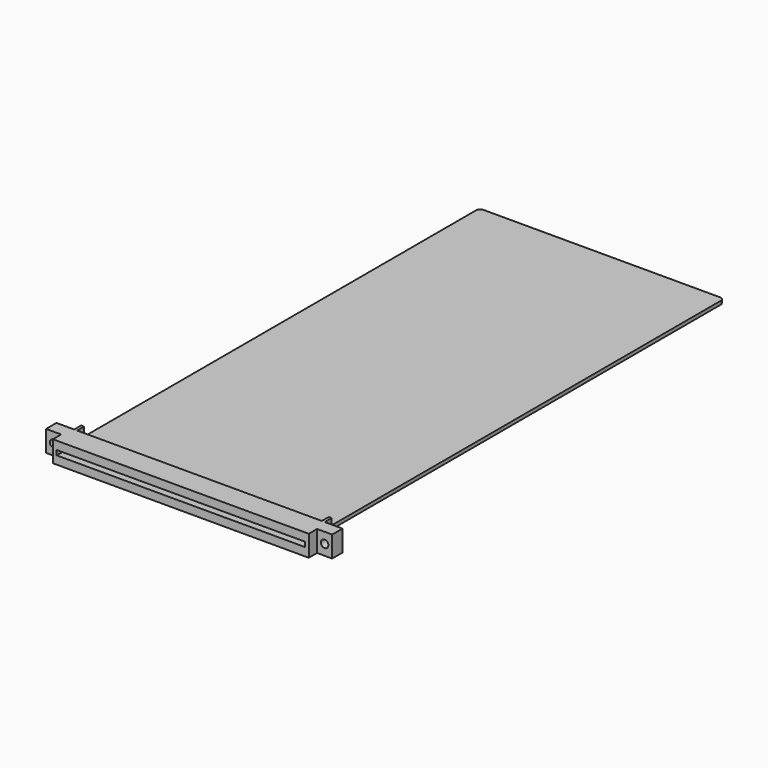
from build123d import *

# Parameters (mm, degrees)
F1_DEPTH = 9.8
F2_R     = 1.75
F3_DEPTH = 7
F4_R     = 1.75
F5_DEPTH = 7
F6_W     = 115
F6_H     = 2.2
F7_DEPTH = 7.5
F8_W     = 113.41
F8_H     = 1.6
F9_DEPTH = 233
F10_R    = 2


with BuildPart() as f1:
    # F0 (on Top) → F1 (new body)
    with BuildSketch(Plane.XY):
        Polygon((8.22, 6), (0, 6), (0, 0), (7, 0), (7, -4.8), (125.55, -4.8), (125.55, 0), (132.55, 0), (132.55, 6), (124.33, 6), (124.33, 10), (122.98, 10), (122.98, 6), (9.57, 6), (9.57, 10), (8.22, 10), align=None)
    extrude(amount=F1_DEPTH)

    # F2 (on face) → F3 (cut)
    with BuildSketch(Plane.XZ):
        with Locations((3.5, 4.9)):
            Circle(F2_R)
    extrude(amount=-F3_DEPTH, mode=Mode.SUBTRACT)

    # F4 (on face) → F5 (cut)
    with BuildSketch(Plane.XZ):
        with Locations((129.05, 4.9)):
            Circle(F4_R)
        with Locations((129.05, 4.9)):
            Circle(F4_R)
    extrude(amount=-F5_DEPTH, mode=Mode.SUBTRACT)

    # F6 (on face) → F7 (cut)
    with BuildSketch(Plane.XZ.offset(4.8)):
        with Locations((66.275, 4.9)):
            Rectangle(F6_W, F6_H)
    extrude(amount=-F7_DEPTH, mode=Mode.SUBTRACT)

    # F8 (on face) → F9 (join)
    with BuildSketch(Plane(origin=(0, 6, 0), x_dir=(-1, 0, 0), z_dir=(0, 1, 0))):
        with Locations((-66.275, 4.9)):
            Rectangle(F8_W, F8_H)
    extrude(amount=F9_DEPTH)

    # F10
    f10_edges = [f1.edges().sort_by_distance(p)[0] for p in [
        (122.98, 239, 4.9),
        (9.57, 239, 4.9),
    ]]
    fillet(f10_edges, radius=F10_R)


solid = f1.part
